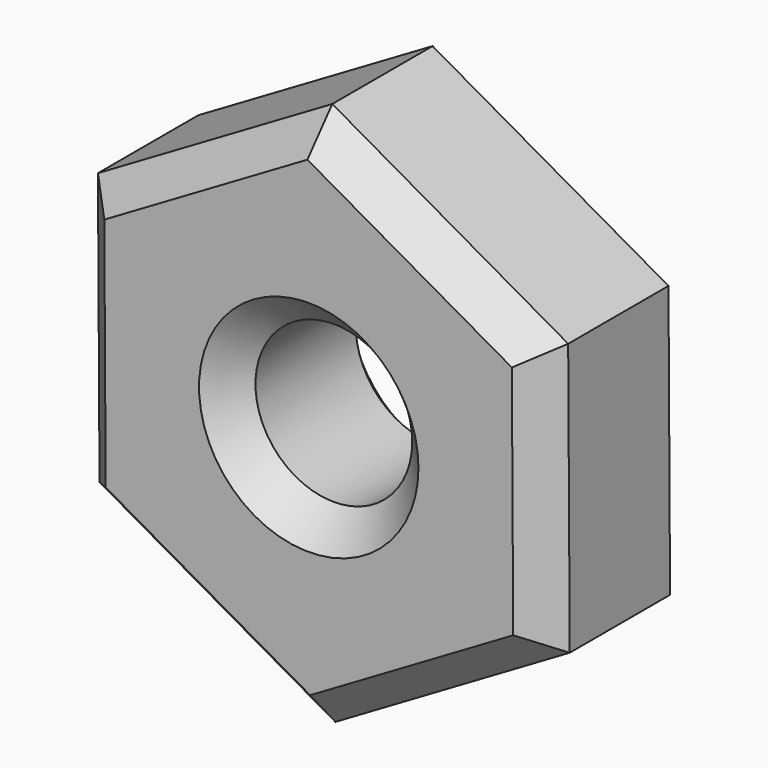
from build123d import *

# Parameters (mm, degrees)
F0_R     = 0.5
F1_DEPTH = 1.2
F2_SIZE  = 0.2


with BuildPart() as f1:
    # F0 (on Front) → F1 (new body)
    with BuildSketch(Plane.XZ):
        Polygon((0.00999, -1.732022), (1.50497, -0.857359), (1.49498, 0.874663), (-0.00999, 1.732022), (-1.50497, 0.857359), (-1.49498, -0.874663), align=None)
        Circle(F0_R, mode=Mode.SUBTRACT)
    extrude(amount=F1_DEPTH)

    # F2
    f2_edges = [f1.edges().sort_by_distance(p)[0] for p in [
        (-1.499975, 0, -0.008652),
        (-0.742495, 0, -1.303342),
        (0.75748, 0, -1.294691),
        (1.499975, 0, 0.008652),
        (0.742495, 0, 1.303342),
        (-0.75748, 0, 1.294691),
        (-0.5, 0, 0),
        (-1.499975, -1.2, -0.008652),
        (-0.742495, -1.2, -1.303342),
        (0.75748, -1.2, -1.294691),
        (1.499975, -1.2, 0.008652),
        (0.742495, -1.2, 1.303342),
        (-0.75748, -1.2, 1.294691),
        (-0.5, -1.2, 0),
    ]]
    chamfer(f2_edges, length=F2_SIZE)


solid = f1.part
